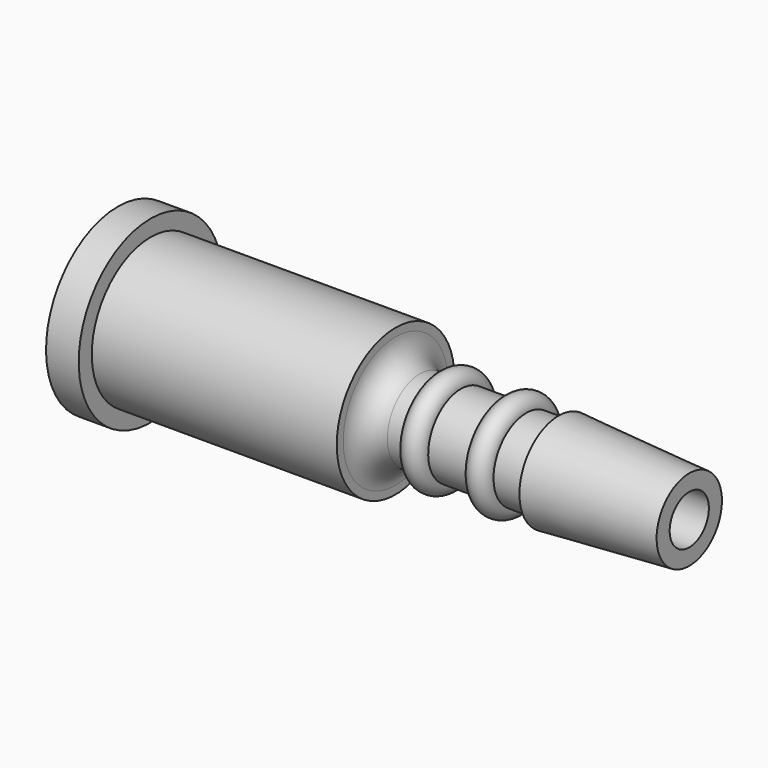
from build123d import *

# Parameters (mm, degrees)
F2_R     = 1.5
F3_DEPTH = 37


with BuildPart() as f1:
    # F0 (on Front) → F1 (revolve)
    with BuildSketch(Plane.XZ):
        with BuildLine():
            Line((-34.985172, 0), (0, 0))
            Line((0, 0), (0, 2.5))
            Line((0, 2.5), (-8, 3))
            Line((-8, 3), (-8, 2.5))
            Line((-8, 2.5), (-9.985172, 2.5))
            ThreePointArc((-9.985172, 2.5), (-10.735172, 3.25), (-11.485172, 2.5))
            Line((-11.485172, 2.5), (-13.985172, 2.5))
            ThreePointArc((-13.985172, 2.5), (-14.735172, 3.25), (-15.485172, 2.5))
            Line((-15.485172, 2.5), (-16.488875, 2.502477))
            ThreePointArc((-16.488875, 2.502477), (-17.54714, 2.943123), (-17.985172, 4.002473))
            Line((-17.985172, 4.002473), (-17.985172, 4.5))
            Line((-17.985172, 4.5), (-32.985172, 4.5))
            Line((-32.985172, 4.5), (-32.985172, 5.5))
            Line((-32.985172, 5.5), (-34.985172, 5.5))
            Line((-34.985172, 5.5), (-34.985172, 0))
        make_face()
    revolve(axis=Axis((-17.492586, 0, 0), (-1, 0, 0)))

    # F2 (on face) → F3 (cut)
    with BuildSketch(Plane.YZ):
        Circle(F2_R)
    extrude(amount=-F3_DEPTH, mode=Mode.SUBTRACT)


solid = f1.part
